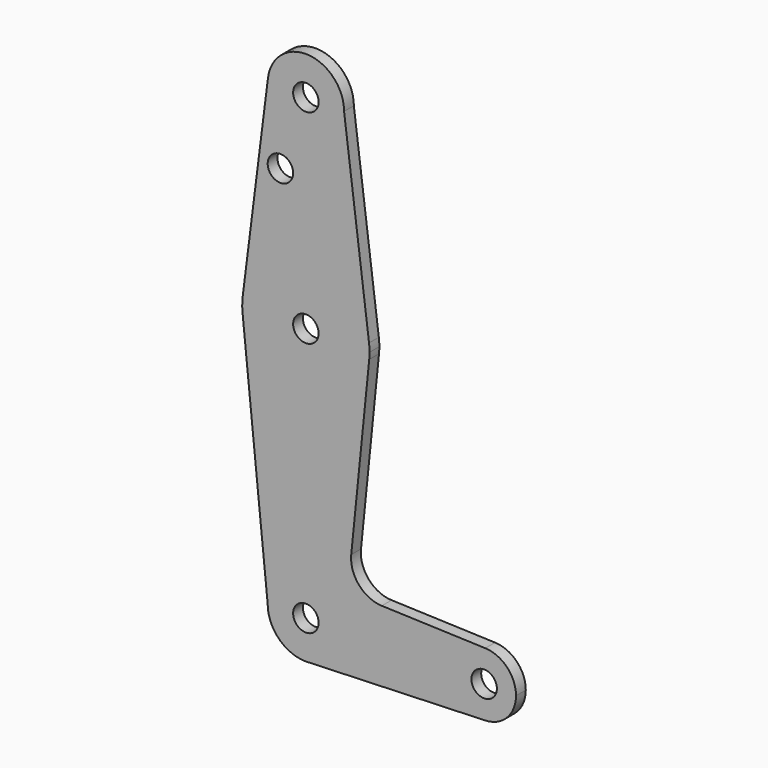
from build123d import *

# Parameters (mm, degrees)
F0_R     = 3.175
F1_DEPTH = 3.048


with BuildPart() as f1:
    # F0 (on Front) → F1 (new body)
    with BuildSketch(Plane.XZ):
        with BuildLine():
            ThreePointArc((-9.450293, 115.490625), (-0.596483, 104.793695), (9.525, 114.3))
            ThreePointArc((9.525, 114.3), (0.596483, 123.806305), (-9.450293, 115.490625))
        make_face()
        with Locations((0, 114.3)):
            Circle(F0_R, mode=Mode.SUBTRACT)
        with BuildLine():
            Line((15.747457, 65.508289), (9.525, 114.3))
            ThreePointArc((9.525, 114.3), (-0.596483, 104.793695), (-9.450293, 115.490625))
            Line((-9.450293, 115.490625), (-15.750488, 65.484375))
            ThreePointArc((-15.750488, 65.484375), (-0.012053, 79.374995), (15.747457, 65.508289))
        make_face()
        with Locations((-6.35, 96.628105)):
            Circle(F0_R, mode=Mode.SUBTRACT)
        with BuildLine():
            ThreePointArc((15.875, 63.5), (15.843082, 64.506168), (15.747457, 65.508289))
            ThreePointArc((15.747457, 65.508289), (-0.012053, 79.374995), (-15.750488, 65.484375))
            ThreePointArc((-15.750488, 65.484375), (-15.873819, 63.693615), (-15.794203, 61.90038))
            ThreePointArc((-15.794203, 61.90038), (0, 47.625), (15.794203, 61.90038))
            ThreePointArc((15.794203, 61.90038), (15.854788, 62.699171), (15.875, 63.5))
        make_face()
        with Locations((0, 63.5)):
            Circle(F0_R, mode=Mode.SUBTRACT)
        with BuildLine():
            ThreePointArc((15.794203, 61.90038), (0, 47.625), (-15.794203, 61.90038))
            Line((-15.794203, 61.90038), (-9.525, 0))
            ThreePointArc((-9.525, 0), (0, 9.525), (9.525, 0))
            ThreePointArc((9.525, 0), (6.970557, -6.491299), (0.677344, -9.500886))
            Line((0.677344, -9.500886), (44.732405, -7.932475))
            ThreePointArc((44.732405, -7.932475), (36.5125, 0), (44.732405, 7.932475))
            Line((44.732405, 7.932475), (18.934103, 8.850924))
            ThreePointArc((18.934103, 8.850924), (13.224974, 11.57098), (11.307223, 17.59718))
            Line((11.307223, 17.59718), (15.794203, 61.90038))
        make_face()
        with BuildLine():
            ThreePointArc((9.525, 0), (0, 9.525), (-9.525, 0))
            ThreePointArc((-9.525, 0), (-6.735192, -6.735192), (0, -9.525))
            Line((0, -9.525), (0.677344, -9.500886))
            ThreePointArc((0.677344, -9.500886), (6.970557, -6.491299), (9.525, 0))
        make_face()
        Circle(F0_R, mode=Mode.SUBTRACT)
        with BuildLine():
            Line((0.677344, -9.500886), (0, -9.525))
            ThreePointArc((0, -9.525), (0.338886, -9.51897), (0.677344, -9.500886))
        make_face()
        with BuildLine():
            ThreePointArc((52.3875, 0), (50.161633, 5.51191), (44.732405, 7.932475))
            ThreePointArc((44.732405, 7.932475), (36.5125, 0), (44.732405, -7.932475))
            ThreePointArc((44.732405, -7.932475), (50.161633, -5.51191), (52.3875, 0))
        make_face()
        with Locations((44.45, 0)):
            Circle(F0_R, mode=Mode.SUBTRACT)
    extrude(amount=F1_DEPTH)


solid = f1.part
